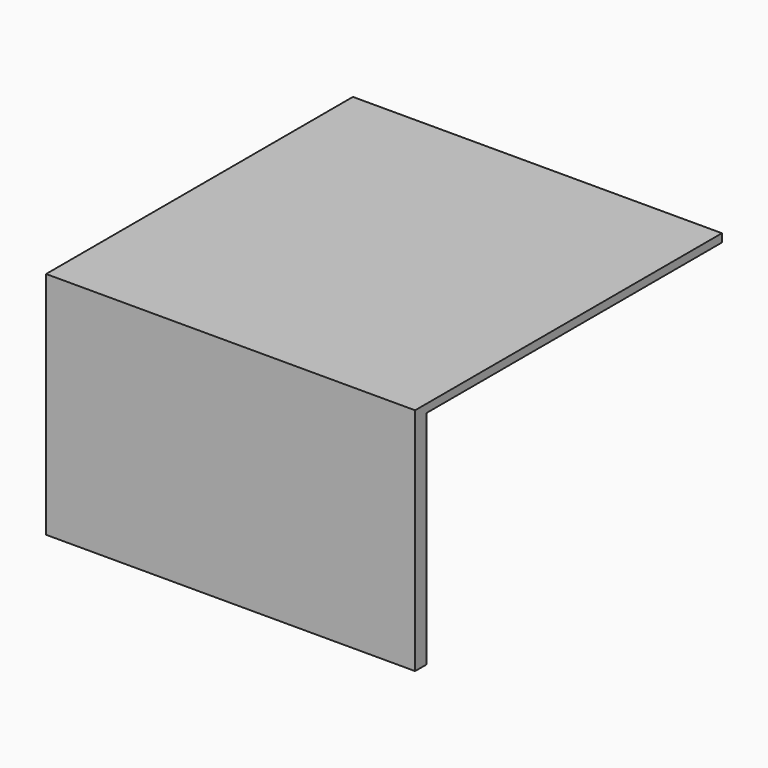
from build123d import *

# Parameters (mm, degrees)
F0_W     = 4500
F0_H     = 2800
F1_DEPTH = 177
F2_W     = 175
F2_H     = 2800
F3_DEPTH = 4500
F5_W     = 4500
F5_H     = 4677
F6_DEPTH = 100


with BuildPart() as f1:
    # F0 (on Front) → F1 (new body)
    with BuildSketch(Plane.XZ):
        with Locations((2147.34713, 1325.776631)):
            Rectangle(F0_W, F0_H)
    extrude(amount=-F1_DEPTH)

    # F2 (on face) → F3 (join)
    with BuildSketch(Plane(origin=(0, 177, 0), x_dir=(-1, 0, 0), z_dir=(0, 1, 0))):
        with Locations((15.15287, 1325.776631)):
            Rectangle(F2_W, F2_H)
    extrude(amount=F3_DEPTH)

    # F5 (on face) → F6 (join)
    with BuildSketch(Plane.XY.offset(2725.776631)):
        with Locations((2147.34713, 2338.5)):
            Rectangle(F5_W, F5_H)
    extrude(amount=-F6_DEPTH)


solid = f1.part
